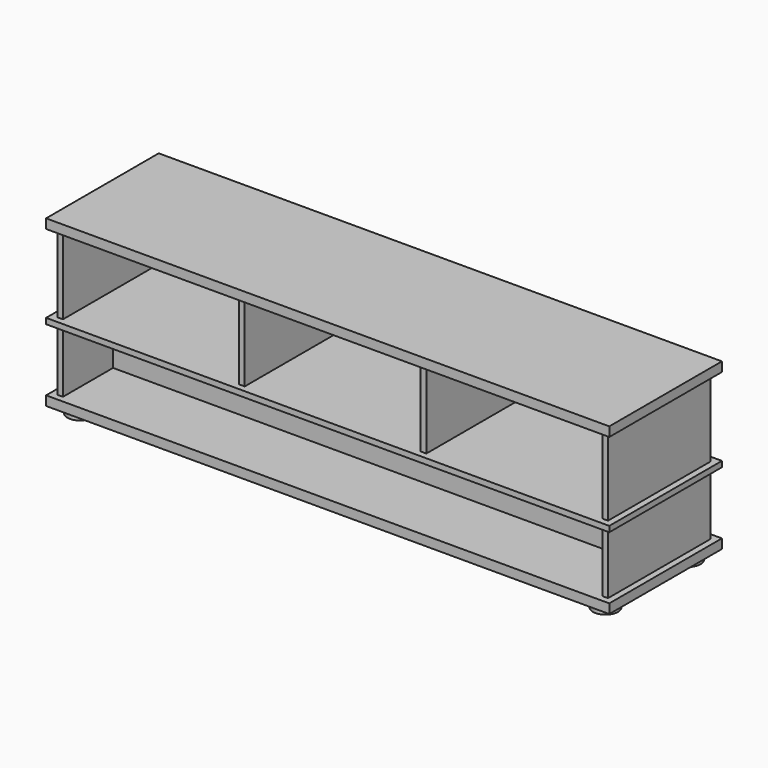
from build123d import *

# Parameters (mm, degrees)
F0_W      = 1800
F0_H      = 450
F1_DEPTH  = 30
F2_W      = 18
F2_H      = 410
F3_DEPTH  = 200
F4_W      = 18
F4_H      = 200
F5_DEPTH  = 1724
F7_W      = 1800
F7_H      = 450
F8_DEPTH  = 18
F9_W      = 18
F9_H      = 410
F10_DEPTH = 250
F12_W     = 1800
F12_H     = 450
F13_DEPTH = 30
F14_R     = 40
F15_DEPTH = 25


with BuildPart() as f1:
    # F0 (on Top) → F1 (new body)
    with BuildSketch(Plane.XY):
        with Locations((900, 225)):
            Rectangle(F0_W, F0_H)
    extrude(amount=F1_DEPTH)


with BuildPart() as f3:
    # F2 (on face) → F3 (new body)
    with BuildSketch(Plane.XY.offset(30)):
        with Locations((29, 225)):
            Rectangle(F2_W, F2_H)
        with Locations((1771, 225)):
            Rectangle(F2_W, F2_H)
    extrude(amount=F3_DEPTH)


with BuildPart() as f5:
    # F4 (on face) → F5 (new body)
    with BuildSketch(Plane.YZ.offset(38)):
        with Locations((229, 130)):
            Rectangle(F4_W, F4_H)
    extrude(amount=F5_DEPTH)


with BuildPart() as f8:
    # F7 (on offset) → F8 (new body)
    with BuildSketch(Plane.XY.offset(230)):
        with Locations((900, 225)):
            Rectangle(F7_W, F7_H)
    extrude(amount=F8_DEPTH)

    # F9 (on face) → F10 (join)
    with BuildSketch(Plane.XY.offset(248)):
        with Locations((1771, 225)):
            Rectangle(F9_W, F9_H)
        with Locations((609.7, 225)):
            Rectangle(F9_W, F9_H)
        with Locations((1190.3, 225)):
            Rectangle(F9_W, F9_H)
        with Locations((29, 225)):
            Rectangle(F9_W, F9_H)
    extrude(amount=F10_DEPTH)

    # F12 (on offset) → F13 (join)
    with BuildSketch(Plane.XY.offset(498)):
        with Locations((900, 225)):
            Rectangle(F12_W, F12_H)
    extrude(amount=F13_DEPTH)


with BuildPart() as f15:
    # F14 (on face) → F15 (new body)
    with BuildSketch(Plane(origin=(0, 0, 0), x_dir=(1, 0, 0), z_dir=(0, 0, -1))):
        with Locations((60, -390)):
            Circle(F14_R)
        with Locations((60, -60)):
            Circle(F14_R)
        with Locations((1740, -390)):
            Circle(F14_R)
        with Locations((1740, -60)):
            Circle(F14_R)
    extrude(amount=F15_DEPTH)


solid = Compound([f1.part, f3.part, f5.part, f8.part, f15.part])
